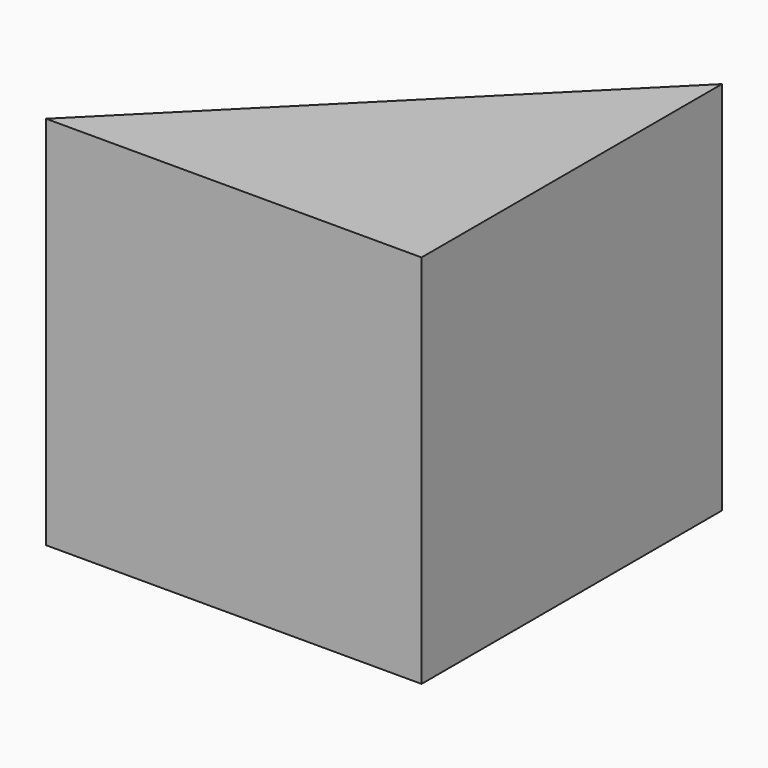
from build123d import *

# Parameters (mm, degrees)
F1_DEPTH = 101.6
F2_W     = 101.6
F2_H     = 101.6
F3_DEPTH = 50.8
F4_W     = 50.8
F4_H     = 50.8
F5_DEPTH = 101.601


with BuildPart() as f1:
    # F0 (on Top) → F1 (new body)
    with BuildSketch(Plane.XY):
        Polygon((-101.6, 0), (0, 0), (0, 101.6), align=None)
    extrude(amount=F1_DEPTH)

    # F2 (on Top) → F3 (join)
    with BuildSketch(Plane.XY):
        with Locations((-50.8, 50.8)):
            Rectangle(F2_W, F2_H)
    extrude(amount=F3_DEPTH)

    # F4 (on face) → F5 (cut, through all)
    with BuildSketch(Plane(origin=(0, 0, 0), x_dir=(1, 0, 0), z_dir=(0, 0, -1))):
        with Locations((-76.2, -76.2)):
            Rectangle(F4_W, F4_H)
    extrude(amount=-F5_DEPTH, mode=Mode.SUBTRACT)


solid = f1.part
